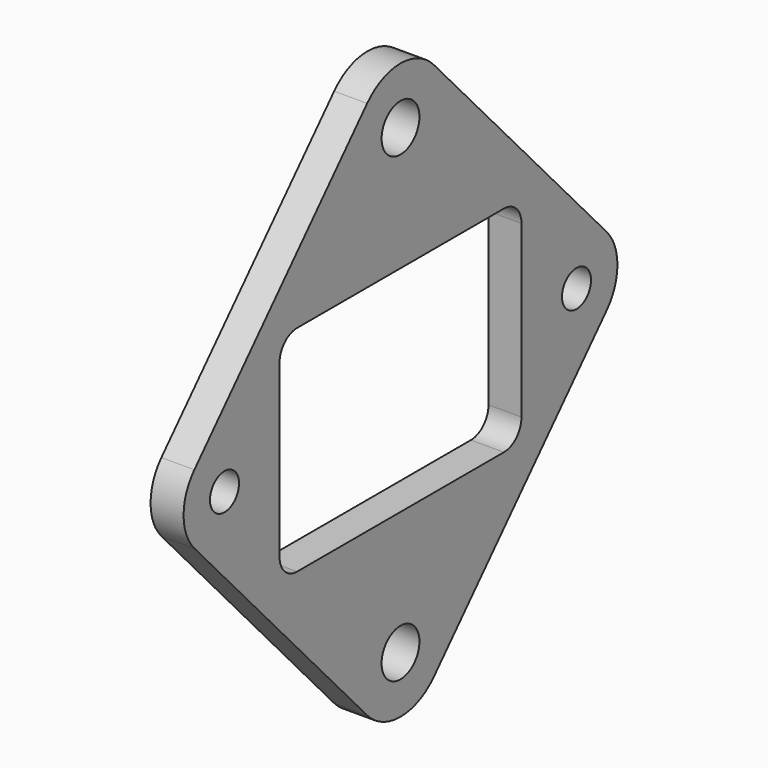
from build123d import *

# Parameters (mm, degrees)
F0_R     = 2.15
F0_R_2   = 1.65
F1_DEPTH = 3


with BuildPart() as f1:
    # F0 (on Right) → F1 (new body)
    with BuildSketch(Plane.YZ):
        with BuildLine():
            Line((23.422032, 19.664407), (3.789993, 41.002941))
            ThreePointArc((3.789993, 41.002941), (0, 42.666043), (-3.789993, 41.002941))
            Line((-3.789993, 41.002941), (-23.422032, 19.664407))
            ThreePointArc((-23.422032, 19.664407), (-24.65, 16.516043), (-23.422032, 13.367679))
            Line((-23.422032, 13.367679), (-3.789993, -7.970854))
            ThreePointArc((-3.789993, -7.970854), (0, -9.633957), (3.789993, -7.970854))
            Line((3.789993, -7.970854), (23.422032, 13.367679))
            ThreePointArc((23.422032, 13.367679), (24.65, 16.516043), (23.422032, 19.664407))
        make_face()
        with Locations((0, -4.483957)):
            Circle(F0_R, mode=Mode.SUBTRACT)
        with Locations((-20, 16.516043)):
            Circle(F0_R_2, mode=Mode.SUBTRACT)
        with BuildLine():
            ThreePointArc((-13.75, 24.266043), (-13.164214, 25.680257), (-11.75, 26.266043))
            Line((-11.75, 26.266043), (11.75, 26.266043))
            ThreePointArc((11.75, 26.266043), (13.164214, 25.680257), (13.75, 24.266043))
            Line((13.75, 24.266043), (13.75, 8.766043))
            ThreePointArc((13.75, 8.766043), (13.164214, 7.35183), (11.75, 6.766043))
            Line((11.75, 6.766043), (-11.75, 6.766043))
            ThreePointArc((-11.75, 6.766043), (-13.164214, 7.35183), (-13.75, 8.766043))
            Line((-13.75, 8.766043), (-13.75, 24.266043))
        make_face(mode=Mode.SUBTRACT)
        with Locations((0, 37.516043)):
            Circle(F0_R, mode=Mode.SUBTRACT)
        with Locations((20, 16.516043)):
            Circle(F0_R_2, mode=Mode.SUBTRACT)
    extrude(amount=F1_DEPTH)


solid = f1.part
